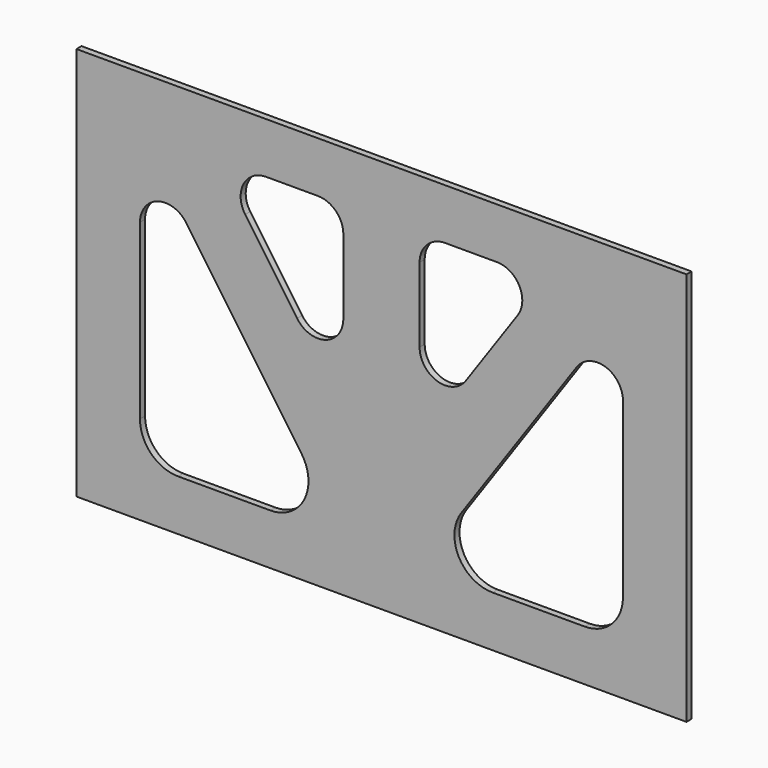
from build123d import *

# Parameters (mm, degrees)
F0_W     = 1219.2
F0_H     = 787.4
F1_DEPTH = 12.7
F3_DEPTH = 12.701


with BuildPart() as f1:
    # F0 (on Front) → F1 (new body)
    with BuildSketch(Plane.XZ):
        Rectangle(F0_W, F0_H)
    extrude(amount=F1_DEPTH)

    # F2 (on face) → F3 (cut, through all)
    with BuildSketch(Plane.XZ.offset(12.7)):
        with BuildLine():
            ThreePointArc((-390.098016, 159.128398), (-447.001631, 178.590483), (-482.6, 130.118322))
            Line((-482.6, 130.118322), (-482.6, -215.9))
            ThreePointArc((-482.6, -215.9), (-460.281537, -269.781537), (-406.4, -292.1))
            Line((-406.4, -292.1), (-222.033056, -292.1))
            ThreePointArc((-222.033056, -292.1), (-154.4968, -251.188726), (-159.480079, -172.384886))
            Line((-159.480079, -172.384886), (-390.098016, 159.128398))
        make_face()
        with BuildLine():
            ThreePointArc((-230.670696, 292.1), (-275.694867, 264.825817), (-272.37268, 212.289924))
            Line((-272.37268, 212.289924), (-168.701984, 63.263298))
            ThreePointArc((-168.701984, 63.263298), (-111.798369, 43.801213), (-76.2, 92.273374))
            Line((-76.2, 92.273374), (-76.2, 241.3))
            ThreePointArc((-76.2, 241.3), (-91.078976, 277.221024), (-127, 292.1))
            Line((-127, 292.1), (-230.670696, 292.1))
        make_face()
        with BuildLine():
            ThreePointArc((76.2, 92.273374), (111.798369, 43.801213), (168.701984, 63.263298))
            Line((168.701984, 63.263298), (272.37268, 212.289924))
            ThreePointArc((272.37268, 212.289924), (275.694867, 264.825817), (230.670696, 292.1))
            Line((230.670696, 292.1), (127, 292.1))
            ThreePointArc((127, 292.1), (91.078976, 277.221024), (76.2, 241.3))
            Line((76.2, 241.3), (76.2, 92.273374))
        make_face()
        with BuildLine():
            ThreePointArc((482.6, 130.118322), (447.001631, 178.590483), (390.098016, 159.128398))
            Line((390.098016, 159.128398), (159.480079, -172.384886))
            ThreePointArc((159.480079, -172.384886), (154.4968, -251.188726), (222.033056, -292.1))
            Line((222.033056, -292.1), (406.4, -292.1))
            ThreePointArc((406.4, -292.1), (460.281537, -269.781537), (482.6, -215.9))
            Line((482.6, -215.9), (482.6, 130.118322))
        make_face()
    extrude(amount=-F3_DEPTH, mode=Mode.SUBTRACT)


solid = f1.part
